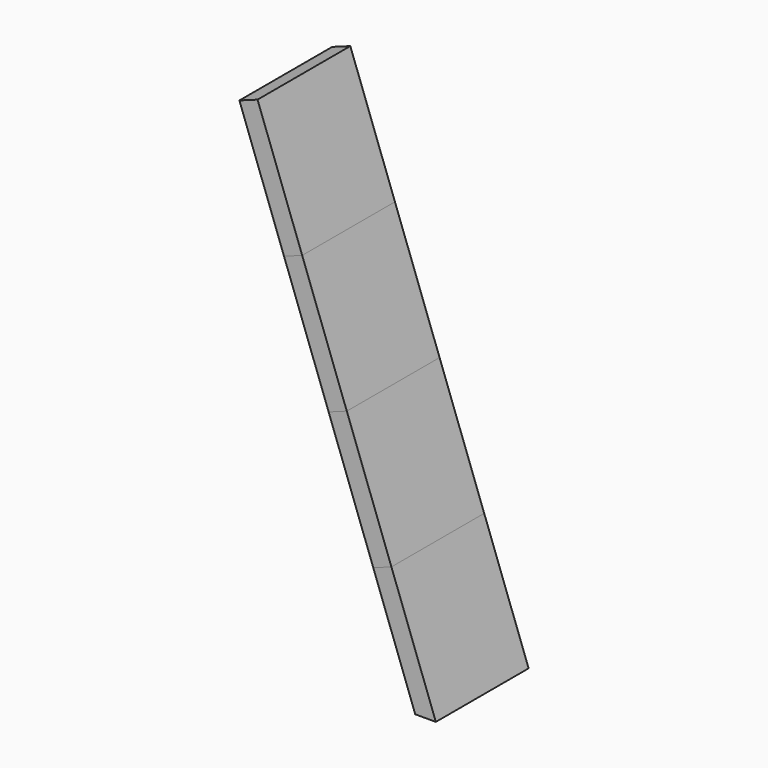
from build123d import *

# Parameters (mm, degrees)
F1_DEPTH = 600
F2_DEPTH = 600


with BuildPart() as f1:
    # F0 (on Front) → F1 (new body)
    with BuildSketch(Plane.XZ):
        Polygon((93.969262, 2534.202014), (0, 2500), (230.863597, 1865.707481), (324.832859, 1899.909495), align=None)
        Polygon((555.696456, 1265.616976), (461.727193, 1231.414962), (692.59079, 597.122443), (786.560052, 631.324457), align=None)
    extrude(amount=-F1_DEPTH)


with BuildPart() as f2:
    # F0 (on Front) → F2 (new body)
    with BuildSketch(Plane.XZ):
        Polygon((324.832859, 1899.909495), (230.863597, 1865.707481), (461.727193, 1231.414962), (555.696456, 1265.616976), align=None)
        Polygon((786.560052, 631.324457), (692.59079, 597.122443), (909.925586, 0), (1016.343363, 0), align=None)
    extrude(amount=-F2_DEPTH)


solid = Compound([f1.part, f2.part])
